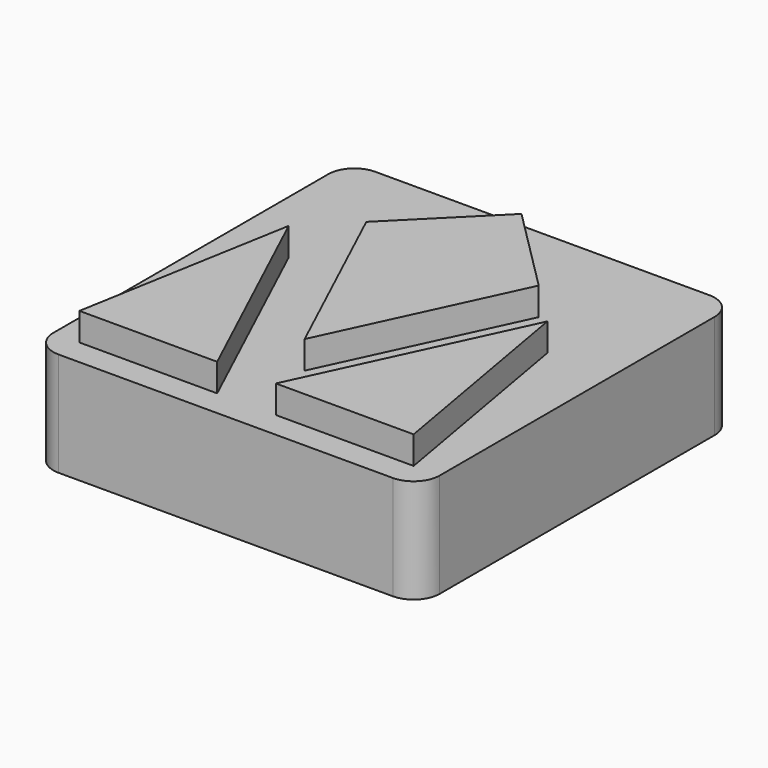
from build123d import *

# Parameters (mm, degrees)
F1_DEPTH = 10
F2_DEPTH = 12.67
F4_D     = 5.1054
F4_DEPTH = 10
F4_TIP   = 1.5338169022
F5_R     = 2.5


with BuildPart() as f1:
    # F0 (on Top) → F1 (new body)
    with BuildSketch(Plane.XY):
        Polygon((-8.2773605124, 24.7226394876), (0, 33), (8.2773605124, 24.7226394876), (12.4160407685, 20.5839592315), (18.5455481509, 14.4544518491), (18.5455481509, 35.5), (-18.5455481509, 35.5), (-18.5455481509, 14.4544518491), (-12.4160407685, 20.5839592315), align=None)
        Polygon((0, 0), (-2.8175829438, 0), (-16.0455481509, 0), (-18.5455481509, 0), (-18.5455481509, -2.5), (18.5455481509, -2.5), (18.5455481509, 0), (16.0455481509, 0), (2.8175829438, 0), align=None)
        Polygon((-16.0455481509, 0), (-12.4160407685, 20.5839592315), (-18.5455481509, 14.4544518491), (-18.5455481509, 0), align=None)
        Polygon((-2.8175829438, 0), (-12.4160407685, 20.5839592315), (-16.0455481509, 0), align=None)
        Polygon((0, 6.9717825853), (-8.2773605124, 24.7226394876), (-12.4160407685, 20.5839592315), (-2.8175829438, 0), (0, 0), (2.8175829438, 0), (12.4160407685, 20.5839592315), (8.2773605124, 24.7226394876), align=None)
        Polygon((16.0455481509, 0), (12.4160407685, 20.5839592315), (2.8175829438, 0), align=None)
        Polygon((18.5455481509, 14.4544518491), (12.4160407685, 20.5839592315), (16.0455481509, 0), (18.5455481509, 0), align=None)
        Polygon((8.2773605124, 24.7226394876), (0, 33), (-8.2773605124, 24.7226394876), (0, 6.9717825853), align=None)
    extrude(amount=F1_DEPTH)

    # F0 (on Top) → F2 (join)
    with BuildSketch(Plane.XY):
        Polygon((16.0455481509, 0), (12.4160407685, 20.5839592315), (2.8175829438, 0), align=None)
        Polygon((8.2773605124, 24.7226394876), (0, 33), (-8.2773605124, 24.7226394876), (0, 6.9717825853), align=None)
        Polygon((-2.8175829438, 0), (-12.4160407685, 20.5839592315), (-16.0455481509, 0), align=None)
    extrude(amount=F2_DEPTH)

    # F4
    with Locations(Plane(origin=(0, 0, 0), x_dir=(1, 0, 0), z_dir=(0, 0, -1))):
        with Locations((0, -16.5)):
            Hole(F4_D / 2, depth=F4_DEPTH)
            with Locations((0, 0, -(F4_DEPTH + F4_TIP / 2))):  # 118° drill point
                Cone(0, F4_D / 2, F4_TIP, mode=Mode.SUBTRACT)

    # F5
    f5_edges = [f1.edges().sort_by_distance(p)[0] for p in [
        (-18.545548, 35.5, 5),
        (18.545548, 35.5, 5),
        (18.545548, -2.5, 5),
        (-18.545548, -2.5, 5),
    ]]
    fillet(f5_edges, radius=F5_R)


solid = f1.part
